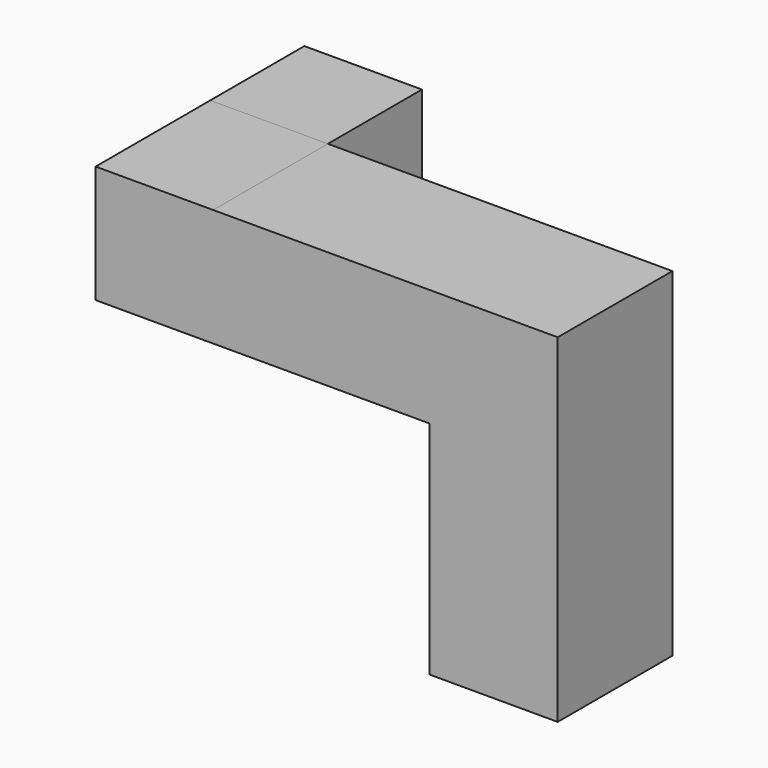
from build123d import *

# Parameters (mm, degrees)
F0_W     = 15.239998
F0_H     = 15.240001
F1_DEPTH = 18.58
F2_W     = 15.240002
F2_H     = 15.240001
F3_DEPTH = 14.732


with BuildPart() as f1:
    # F0 (on Front) → F1 (new body)
    with BuildSketch(Plane.XZ):
        Polygon((0, -43.891199), (0, 0), (-44.6532, 0), (-44.6532, -15.240001), (-16.6116, -15.240001), (-16.6116, -43.891199), align=None)
        with Locations((-52.273199, -7.62)):
            Rectangle(F0_W, F0_H)
    extrude(amount=F1_DEPTH)

    # F2 (on Top) → F3 (join)
    with BuildSketch(Plane.XY):
        with Locations((-52.273201, 7.62)):
            Rectangle(F2_W, F2_H)
    extrude(amount=-F3_DEPTH)


solid = f1.part
